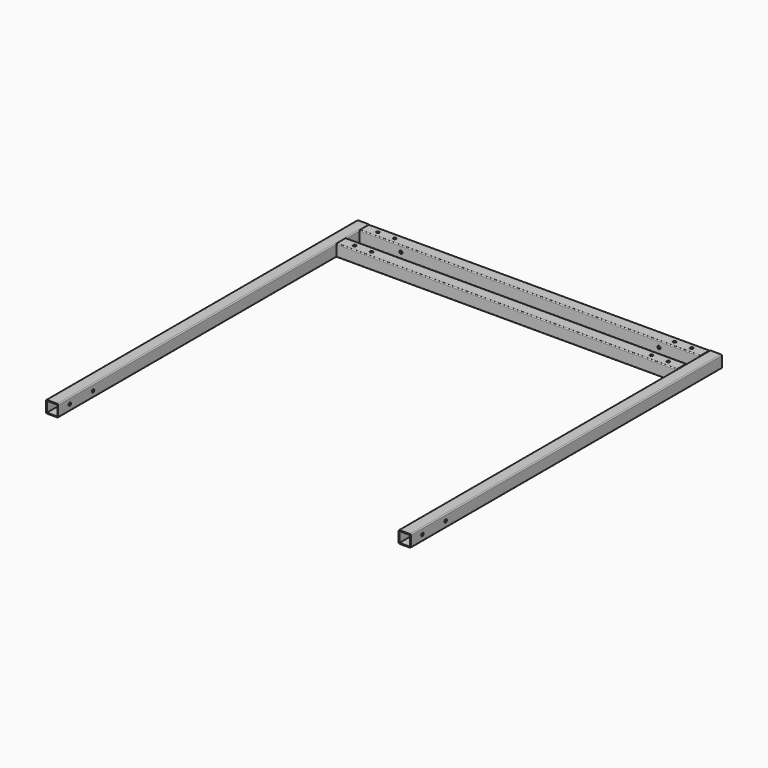
from build123d import *

# Parameters (mm, degrees)
F0_W     = 27.0256
F0_H     = 27.0256
F1_DEPTH = 1019.175
F2_W     = 2.3622
F2_H     = 27.0256
F3_DEPTH = 892.175
F5_D     = 7.9375
F8_D     = 7.9375
F10_D    = 7.9375
F12_D    = 7.9375
F14_D    = 7.9375


with BuildPart() as f1:
    # F0 (on Front) → F1 (new body)
    with BuildSketch(Plane.XZ):
        with BuildLine():
            Line((-475.4753, -15.875), (-448.4497, -15.875))
            ThreePointArc((-448.4497, -15.875), (-446.7793723615, -15.1831276385), (-446.0875, -13.5128))
            Line((-446.0875, -13.5128), (-446.0875, 13.5128))
            ThreePointArc((-446.0875, 13.5128), (-446.7793723615, 15.1831276385), (-448.4497, 15.875))
            Line((-448.4497, 15.875), (-475.4753, 15.875))
            ThreePointArc((-475.4753, 15.875), (-477.1456276385, 15.1831276385), (-477.8375, 13.5128))
            Line((-477.8375, 13.5128), (-477.8375, -13.5128))
            ThreePointArc((-477.8375, -13.5128), (-477.1456276385, -15.1831276385), (-475.4753, -15.875))
        make_face()
        with Locations((-461.9625, 0)):
            Rectangle(F0_W, F0_H, mode=Mode.SUBTRACT)
    extrude(amount=F1_DEPTH)

    # F5 (through all)
    with Locations(Plane(origin=(-477.8375, 0, 0), x_dir=(0, -1, 0), z_dir=(-1, 0, 0))):
        with Locations((981.075, 0), (904.875, 0)):
            Hole(F5_D / 2)


with BuildPart() as f3:
    # F2 (on face) → F3 (new body)
    with BuildSketch(Plane.YZ.offset(-446.0875)):
        with Locations((-106.7689, 0)):
            Rectangle(F2_W, F2_H)
        with BuildLine():
            Line((-78.5622, 13.5128), (-76.2, 13.5128))
            ThreePointArc((-76.2, 13.5128), (-76.8918723615, 15.1831276385), (-78.5622, 15.875))
            Line((-78.5622, 15.875), (-105.5878, 15.875))
            ThreePointArc((-105.5878, 15.875), (-107.2581276385, 15.1831276385), (-107.95, 13.5128))
            Line((-107.95, 13.5128), (-105.5878, 13.5128))
            Line((-105.5878, 13.5128), (-78.5622, 13.5128))
        make_face()
        with Locations((-77.3811, 0)):
            Rectangle(F2_W, F2_H)
        with BuildLine():
            ThreePointArc((-78.5622, -15.875), (-76.8918723615, -15.1831276385), (-76.2, -13.5128))
            Line((-76.2, -13.5128), (-78.5622, -13.5128))
            Line((-78.5622, -13.5128), (-105.5878, -13.5128))
            Line((-105.5878, -13.5128), (-107.95, -13.5128))
            ThreePointArc((-107.95, -13.5128), (-107.2581276385, -15.1831276385), (-105.5878, -15.875))
            Line((-105.5878, -15.875), (-78.5622, -15.875))
        make_face()
    extrude(amount=F3_DEPTH)

    # F12 (through all)
    with Locations(Plane.XY.offset(15.875)):
        with Locations((411.1625, -92.075), (366.7125, -92.075), (-366.7125, -92.075), (-411.1625, -92.075)):
            Hole(F12_D / 2)


with BuildPart() as f3b:
    # F2 (on face) → F3, piece 2 (new body)
    with BuildSketch(Plane.YZ.offset(-446.0875)):
        with Locations((-30.5689, 0)):
            Rectangle(F2_W, F2_H)
        with BuildLine():
            Line((-2.3622, 13.5128), (0, 13.5128))
            ThreePointArc((0, 13.5128), (-0.6918723615, 15.1831276385), (-2.3622, 15.875))
            Line((-2.3622, 15.875), (-29.3878, 15.875))
            ThreePointArc((-29.3878, 15.875), (-31.0581276385, 15.1831276385), (-31.75, 13.5128))
            Line((-31.75, 13.5128), (-29.3878, 13.5128))
            Line((-29.3878, 13.5128), (-2.3622, 13.5128))
        make_face()
        with Locations((-1.1811, 0)):
            Rectangle(F2_W, F2_H)
        with BuildLine():
            Line((-29.3878, -15.875), (-2.3622, -15.875))
            ThreePointArc((-2.3622, -15.875), (-0.6918723615, -15.1831276385), (0, -13.5128))
            Line((0, -13.5128), (-2.3622, -13.5128))
            Line((-2.3622, -13.5128), (-29.3878, -13.5128))
            Line((-29.3878, -13.5128), (-31.75, -13.5128))
            ThreePointArc((-31.75, -13.5128), (-31.0581276385, -15.1831276385), (-29.3878, -15.875))
        make_face()
    extrude(amount=F3_DEPTH)

    # F8 (through all)
    with Locations(Plane(origin=(0, 0, 0), x_dir=(-1, 0, 0), z_dir=(0, 1, 0))):
        with Locations((338.1375, 0)):
            Hole(F8_D / 2)

    # F10 (through all)
    with Locations(Plane(origin=(0, 0, 0), x_dir=(-1, 0, 0), z_dir=(0, 1, 0))):
        with Locations((-338.1375, 0)):
            Hole(F10_D / 2)

    # F14 (through all)
    with Locations(Plane.XY.offset(15.875)):
        with Locations((411.1625, -15.875), (366.7125, -15.875), (-366.7125, -15.875), (-411.1625, -15.875)):
            Hole(F14_D / 2)


with BuildPart() as f6_1:
    # F6: instance of F1
    add(f1.part.mirror(Plane.YZ))


solid = Compound([f1.part, f3.part, f3b.part, f6_1.part])
